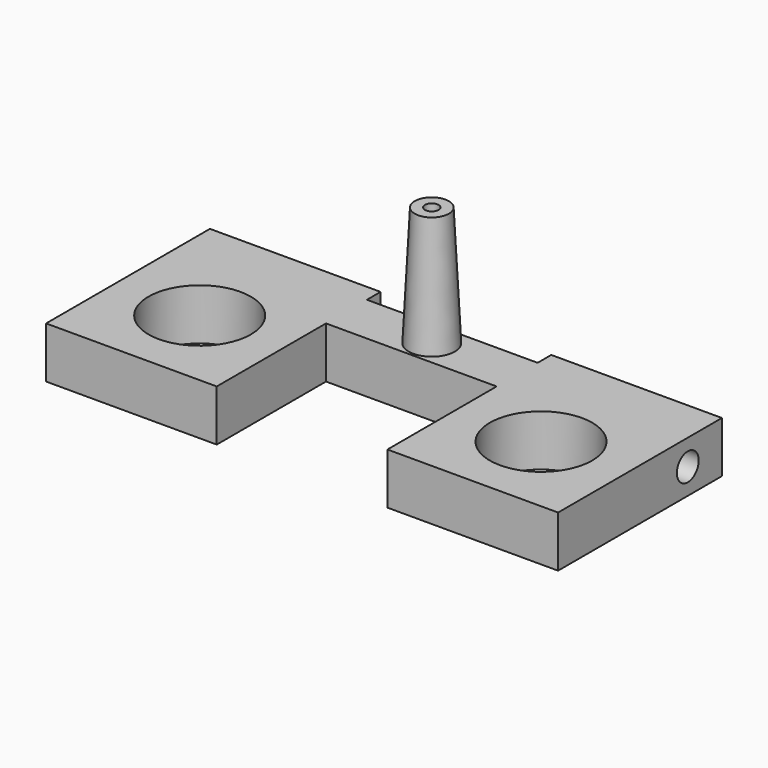
from build123d import *

# Parameters (mm, degrees)
CYLINDER140_R           = 1.5
CYLINDER140_DEPTH       = 8
CYLINDER138_R           = 0.4
CYLINDER138_DEPTH       = 8
CYLINDER138_PITCH_ANGLE = 90
CYLINDER139_R           = 0.4
CYLINDER139_DEPTH       = 10
CYLINDER139_PITCH_ANGLE = 90
CYLINDER136_R           = 0.2
CYLINDER136_DEPTH       = 9
CYLINDER141_R           = 1.5
CYLINDER141_DEPTH       = 8
BOX028_W                = 5
BOX028_H                = 6
BOX028_DEPTH            = 1.5
BOX027_W                = 5
BOX027_H                = 6
BOX027_DEPTH            = 1.5
BOX026_W                = 5
BOX026_H                = 1.5
BOX026_DEPTH            = 1.5


with BuildPart() as bowtiemount003:
    # Cylinder140 → Cylinder140 (new body)
    with BuildSketch(Plane(origin=(127, 146.25, 63), x_dir=(1, 0, 0), z_dir=(0, 0, 1))):
        Circle(CYLINDER140_R)
    extrude(amount=CYLINDER140_DEPTH)


with BuildPart() as bowtieinjectorwire1:
    # Cylinder138 → Cylinder138 (new body)
    with BuildSketch(Plane.XY):
        Circle(CYLINDER138_R)
    extrude(amount=CYLINDER138_DEPTH)


with BuildPart() as bowtieinjectorwire1_1:
    # Cylinder138 pitch: moved
    add(bowtieinjectorwire1.part.rotate(Axis((0, 0, 0), (0, 1, 0)), CYLINDER138_PITCH_ANGLE))


with BuildPart() as bowtieinjectorwire1_2:
    # Cylinder138 placement: moved
    add(bowtieinjectorwire1_1.part.moved(Location((121.75, 148.5, 69.75))))


with BuildPart() as bowtieinjectorwire002:
    # Cylinder139 → Cylinder139 (new body)
    with BuildSketch(Plane.XY):
        Circle(CYLINDER139_R)
    extrude(amount=CYLINDER139_DEPTH)


with BuildPart() as bowtieinjectorwire002_1:
    # Cylinder139 pitch: moved
    add(bowtieinjectorwire002.part.rotate(Axis((0, 0, 0), (0, 1, 0)), CYLINDER139_PITCH_ANGLE))


with BuildPart() as bowtieinjectorwire002_2:
    # Cylinder139 placement: moved
    add(bowtieinjectorwire002_1.part.moved(Location((111, 148.5, 69.75))))


with BuildPart() as bowtienozzle004:
    # Cylinder136 → Cylinder136 (new body)
    with BuildSketch(Plane(origin=(122, 148.5, 69.5), x_dir=(1, 0, 0), z_dir=(0, 0, 1))):
        Circle(CYLINDER136_R)
    extrude(amount=CYLINDER136_DEPTH)


with BuildPart() as bowtiecut:
    # Cylinder141 → Cylinder141 (new body)
    with BuildSketch(Plane(origin=(117, 146.25, 63), x_dir=(1, 0, 0), z_dir=(0, 0, 1))):
        Circle(CYLINDER141_R)
    extrude(amount=CYLINDER141_DEPTH)

    # Fusion055: union BowTieMount003, BowTieInjectorWire1, BowTieInjectorWire002, BowTieNozzle004
    add(bowtiemount003.part)
    add(bowtieinjectorwire1_2.part)
    add(bowtieinjectorwire002_2.part)
    add(bowtienozzle004.part)


with BuildPart() as cone001:
    # Cone001 → Cone001 (revolve)
    with BuildSketch(Plane(origin=(122, 148.5, 70), x_dir=(1, 0, 0), z_dir=(0, -1, 0))):
        Polygon((0, 0), (0.7, 0), (0.5, 4), (0, 4), align=None)
    revolve(axis=Axis((122, 148.5, 70), (0, 0, 1)))


with BuildPart() as cube011:
    # Box028 → Box028 (new body)
    with BuildSketch(Plane(origin=(114.5, 143.75, 69), x_dir=(1, 0, 0), z_dir=(0, 0, 1))):
        with Locations((2.5, 3)):
            Rectangle(BOX028_W, BOX028_H)
    extrude(amount=BOX028_DEPTH)


with BuildPart() as cube010:
    # Box027 → Box027 (new body)
    with BuildSketch(Plane(origin=(124.5, 143.75, 69), x_dir=(1, 0, 0), z_dir=(0, 0, 1))):
        with Locations((2.5, 3)):
            Rectangle(BOX027_W, BOX027_H)
    extrude(amount=BOX027_DEPTH)


with BuildPart() as bowtie:
    # Box026 → Box026 (new body)
    with BuildSketch(Plane(origin=(119.5, 147.75, 69), x_dir=(1, 0, 0), z_dir=(0, 0, 1))):
        with Locations((2.5, 0.75)):
            Rectangle(BOX026_W, BOX026_H)
    extrude(amount=BOX026_DEPTH)

    # Fusion056: union Cone001, Cube011, Cube010
    add(cone001.part)
    add(cube011.part)
    add(cube010.part)

    # Cut018: cut BowTieCut
    add(bowtiecut.part, mode=Mode.SUBTRACT)


with BuildPart() as bowtie_1:
    # Cut018 placement: moved
    add(bowtie.part.moved(Location((-16.58, -0.5, -5))))


solid = bowtie_1.part
